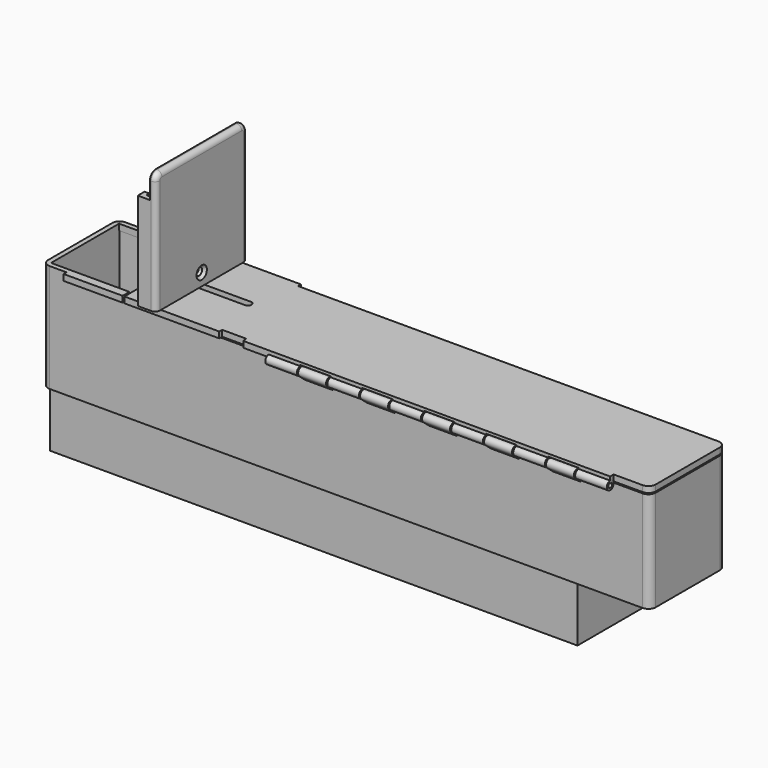
from build123d import *

# Parameters (mm, degrees)
PAD_DEPTH              = 40
SKETCH002_W            = 2.5
SKETCH002_H            = 47
PAD001_DEPTH           = 50
FILLET_R               = 3
FILLET001_R            = 2
HOLE_D                 = 3.1
HOLE_DEPTH             = 19
HOLE_CSINK_D           = 5.3
HOLE_CSINK_ANGLE       = 90
PAD002_DEPTH           = 2.5
FILLET002_R            = 0.5
FILLET004_R            = 3
SKETCH007_W            = 12.5
SKETCH007_H            = 1.4
POCKET_DEPTH           = 2
SKETCH008_R            = 1.75
SKETCH008_R_2          = 0.95
PAD005_DEPTH           = 13
LINEARPATTERN_COUNT    = 6
LINEARPATTERN_PITCH    = 25.5
PAD003_DEPTH           = 2.5
SKETCH006_W            = 250
SKETCH006_H            = 39
SKETCH006_W_2          = 31
SKETCH006_H_2          = 35.164688
SKETCH006_W_3          = 213
PAD004_DEPTH           = 42
PAD006_DEPTH           = 214
SKETCH010_W            = 217
SKETCH010_H            = 35
SKETCH010_W_2          = 213
SKETCH010_H_2          = 31.115413
PAD007_DEPTH           = 25
FILLET005_R            = 3
SKETCH011_R            = 0.95
PAD008_DEPTH           = 11.5
LINEARPATTERN001_COUNT = 5
LINEARPATTERN001_PITCH = 25.5
BOX_W                  = 240
BOX_H                  = 50
BOX_DEPTH              = 10


with BuildPart() as lidlock:
    # Sketch001 → Pad (new body)
    with BuildSketch(Plane.XY):
        Polygon((-75, 25.5), (-75, -21.5), (-82.5, -21.5), (-82.5, -18), (-80.5, -18), (-80.5, -19.5), (-77.5, -19.5), (-77.5, 23.5), (-80.5, 23.5), (-80.5, 22), (-82.5, 22), (-82.5, 25.5), align=None)
    extrude(amount=PAD_DEPTH)

    # Sketch002 → Pad001 (join)
    with BuildSketch(Plane.XY):
        with Locations((-76.25, 2)):
            Rectangle(SKETCH002_W, SKETCH002_H)
    extrude(amount=PAD001_DEPTH)

    # Fillet
    fillet_edges = [lidlock.edges().sort_by_distance(p)[0] for p in [
        (-76.25, -21.5, 50),
        (-76.25, 25.5, 50),
    ]]
    fillet(fillet_edges, radius=FILLET_R)

    # Fillet001
    fillet001_edges = [lidlock.edges().sort_by_distance(p)[0] for p in [
        (-75, -21.5, 20),
    ]]
    fillet(fillet001_edges, radius=FILLET001_R)

    # Hole
    with Locations(Plane.YZ.offset(-75)):
        with Locations((2, 5)):
            CounterSinkHole(HOLE_D / 2, HOLE_CSINK_D / 2, depth=HOLE_DEPTH, counter_sink_angle=HOLE_CSINK_ANGLE)


with BuildPart() as lid:
    # Sketch004 → Pad002 (new body)
    with BuildSketch(Plane.XY):
        Polygon((125, -17.5), (110.07899, -17.5), (110.07899, -19.3), (-41, -19.3), (-41, -17.5), (-51, -17.5), (-51, -19), (-90, -19), (-90, 23), (-51, 23), (-51, 21.5), (125, 21.5), align=None)
        with BuildLine():
            ThreePointArc((-83, 3.5), (-84.5, 2), (-83, 0.5))
            Line((-83, 0.5), (-56, 0.5))
            ThreePointArc((-56, 0.5), (-54.5, 2), (-56, 3.5))
            Line((-56, 3.5), (-83, 3.5))
        make_face(mode=Mode.SUBTRACT)
    extrude(amount=PAD002_DEPTH)

    # Fillet002
    fillet002_edges = [lid.edges().sort_by_distance(p)[0] for p in [
        (-41, -19.3, 1.25),
        (-41, -17.5, 1.25),
    ]]
    fillet(fillet002_edges, radius=FILLET002_R)

    # Fillet004
    fillet004_edges = [lid.edges().sort_by_distance(p)[0] for p in [
        (125, 21.5, 1.25),
        (125, -17.5, 1.25),
    ]]
    fillet(fillet004_edges, radius=FILLET004_R)

    # Sketch007 → Pocket (cut)
    with BuildSketch(Plane.XZ.offset(19.3)):
        with Locations((-11.17101, 0.7)):
            Rectangle(SKETCH007_W, SKETCH007_H)
        with Locations((14.32899, 0.7)):
            Rectangle(SKETCH007_W, SKETCH007_H)
        with Locations((39.82899, 0.7)):
            Rectangle(SKETCH007_W, SKETCH007_H)
        with Locations((65.32899, 0.7)):
            Rectangle(SKETCH007_W, SKETCH007_H)
        with Locations((90.82899, 0.7)):
            Rectangle(SKETCH007_W, SKETCH007_H)
    extrude(amount=-POCKET_DEPTH, mode=Mode.SUBTRACT)

    # Sketch008 → Pad005 (join)
    with BuildSketch(Plane.YZ.offset(110.1)):
        with Locations((-19.3, -0.75)):
            Circle(SKETCH008_R)
        with Locations((-19.3, -0.75)):
            Circle(SKETCH008_R_2, mode=Mode.SUBTRACT)
    pad005 = extrude(amount=-PAD005_DEPTH)

    # LinearPattern: Pad005 ×6
    with Locations(*[(-i * LINEARPATTERN_PITCH, 0, 0) for i in range(1, LINEARPATTERN_COUNT)]):
        add(pad005)


with BuildPart() as lid_1:
    # Body001 placement: moved
    add(lid.part.moved(Location((0, 0, -2.5))))


with BuildPart() as mainbody:
    # Sketch005 → Pad003 (new body)
    with BuildSketch(Plane.XY):
        Polygon((-115, -19), (-90.75, -19), (-90.75, -17.5), (-90.75, -15.5), (-123, -15.5), (-123, 19.5), (-90.8, 19.5), (-90.8, 21.5), (-90.8, 23), (-115, 23), (-115, 21.5), (-125, 21.5), (-125, -17.5), (-115, -17.5), align=None)
    extrude(amount=-PAD003_DEPTH)

    # Sketch006 → Pad004 (join)
    with BuildSketch(Plane.XY.offset(-2.5)):
        with Locations((0, 2)):
            Rectangle(SKETCH006_W, SKETCH006_H)
        with Locations((107.5, 2.033069)):
            Rectangle(SKETCH006_W_2, SKETCH006_H_2, mode=Mode.SUBTRACT)
        with Locations((-16.5, 2.033069)):
            Rectangle(SKETCH006_W_3, SKETCH006_H_2, mode=Mode.SUBTRACT)
    extrude(amount=-PAD004_DEPTH)

    # Sketch009 → Pad006 (join)
    with BuildSketch(Plane.YZ.offset(90)):
        Polygon((-15.549275, -44.5), (-11.5, -44.5), (-15.549275, -39.674262), align=None)
    extrude(amount=-PAD006_DEPTH)

    # Sketch010 (on DatumPlane) → Pad007 (join)
    with BuildSketch(Plane.XY.offset(-44.5)):
        with Locations((-16.5, 4)):
            Rectangle(SKETCH010_W, SKETCH010_H)
        with Locations((-16.5, 4.057707)):
            Rectangle(SKETCH010_W_2, SKETCH010_H_2, mode=Mode.SUBTRACT)
    extrude(amount=-PAD007_DEPTH)

    # Fillet005
    fillet005_edges = [mainbody.edges().sort_by_distance(p)[0] for p in [
        (125, -17.5, -23.5),
        (125, 21.5, -23.5),
        (-125, -17.5, -22.25),
        (-125, 21.5, -22.25),
    ]]
    fillet(fillet005_edges, radius=FILLET005_R)

    # Sketch011 → Pad008 (join)
    with BuildSketch(Plane.YZ.offset(85.1)):
        with BuildLine():
            ThreePointArc((-17.695709, -2.550892), (-20.347635, -1.848229), (-20.424878, -4.590578))
            Line((-17.5, -7.044842), (-20.424878, -4.590578))
            Line((-17.5, -3), (-17.5, -7.044842))
            Line((-17.5, -3), (-17.695709, -2.550892))
        make_face()
        with Locations((-19.3, -3.25)):
            Circle(SKETCH011_R, mode=Mode.SUBTRACT)
    pad008 = extrude(amount=PAD008_DEPTH)

    # LinearPattern001: Pad008 ×5
    with Locations(*[(-i * LINEARPATTERN001_PITCH, 0, 0) for i in range(1, LINEARPATTERN001_COUNT)]):
        add(pad008)

    # Box → Box (cut)
    with BuildSketch(Plane(origin=(-90.8, -17.5, -3), x_dir=(1, 0, 0), z_dir=(0, 0, 1))):
        with Locations((120, 25)):
            Rectangle(BOX_W, BOX_H)
    extrude(amount=BOX_DEPTH, mode=Mode.SUBTRACT)


solid = Compound([lidlock.part, lid_1.part, mainbody.part])
